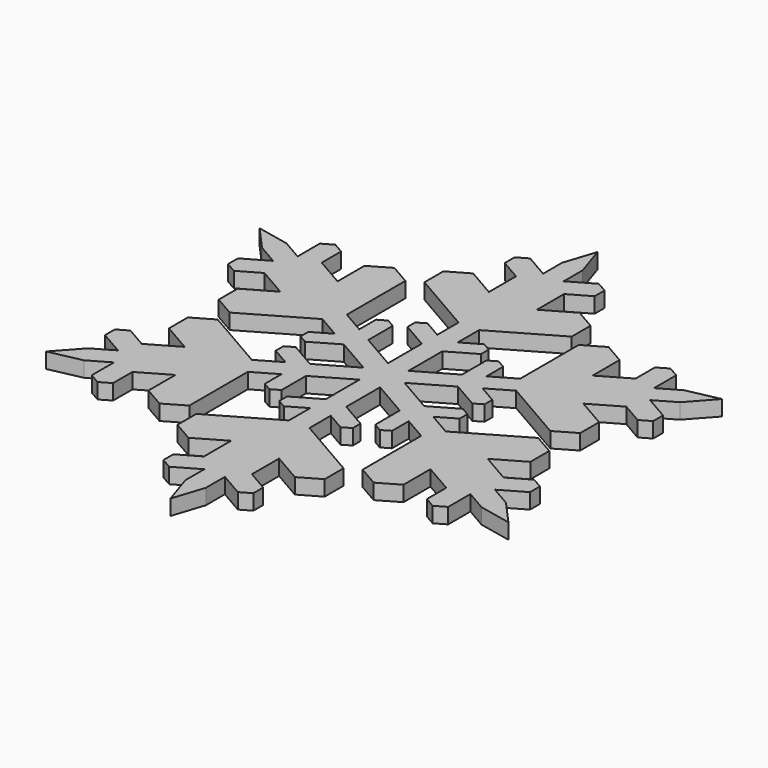
from build123d import *

# Parameters (mm, degrees)
F1_DEPTH = 1.5
F2_SCALE = 2


with BuildPart() as f1:
    # F0 (on Top) → F1 (new body)
    with BuildSketch(Plane.XY):
        Polygon((1, 22.9381248355), (0, 26), (-1, 22.9381248355), (-1, 20.6239007905), (-1, 10.3257747583), (-1, 7.7330539934), (-1, 5.8462243388), (-1, 1.7320508076), (0, 1.1547005384), (1, 1.7320508076), (1, 5.8462243388), (1, 7.7330539934), (1, 10.3257747583), (1, 20.6239007905), align=None)
        Polygon((-1, 10.3257747583), (-1, 20.6239007905), (-3.3421805402, 21.9761593558), (-4.3800496496, 21.3769453461), (-4.3800496496, 20.1785173267), (-2.3382089566, 18.999660053), (-2.3382089566, 15.6947334178), (-5.1809422958, 17.3359862764), (-7.1712173522, 16.1869004369), (-7.1712173522, 13.8887287578), align=None)
        Polygon((3.3421805402, 21.9761593558), (1, 20.6239007905), (1, 10.3257747583), (7.1712173522, 13.8887287578), (7.1712173522, 16.1869004369), (5.1809422958, 17.3359862764), (2.3382089566, 15.6947334178), (2.3382089566, 18.999660053), (4.3800496496, 20.1785173267), (4.3800496496, 21.3769453461), align=None)
        Polygon((-1, 5.8462243388), (-1, 7.7330539934), (-2.7624498207, 8.7506048719), (-3.5794710275, 8.2788974582), (-3.5794710275, 7.3354826309), align=None)
        Polygon((2.7624498207, 8.7506048719), (1, 7.7330539934), (1, 5.8462243388), (3.5794710275, 7.3354826309), (3.5794710275, 8.2788974582), align=None)
        Polygon((0, 1.1547005384), (-1, 1.7320508076), (-1, 0.5773502692), (-2, 0), (-1, -0.5773502692), (-1, -1.7320508076), (0, -1.1547005384), (1, -1.7320508076), (1, -0.5773502692), (2, 0), (1, 0.5773502692), (1, 1.7320508076), align=None)
        Polygon((-1, 0.5773502692), (-1, 1.7320508076), (-4.5629787936, 3.7891375732), (-6.1970212072, 4.7325524005), (-8.4423832544, 6.0289127829), (-17.3608220097, 11.177975799), (-19.3649988227, 12.3350878215), (-22.5166604984, 13), (-20.3649988227, 10.603037014), (-18.3608220097, 9.4459249914), (-9.4423832544, 4.2968619754), (-7.1970212072, 3.0005015929), (-5.5629787936, 2.0570867656), (-2, 0), align=None)
        Polygon((4.5629787936, 3.7891375732), (1, 1.7320508076), (1, 0.5773502692), (2, 0), (5.5629787936, 2.0570867656), (7.1970212072, 3.0005015929), (9.4423832544, 4.2968619754), (18.3608220097, 9.4459249914), (20.3649988227, 10.603037014), (22.5166604984, 13), (19.3649988227, 12.3350878215), (17.3608220097, 11.177975799), (8.4423832544, 6.0289127829), (6.1970212072, 4.7325524005), align=None)
        Polygon((-6.1970212072, 4.7325524005), (-4.5629787936, 3.7891375732), (-4.5629787936, 6.7676541573), (-5.3800000004, 7.239361571), (-6.1970212072, 6.7676541573), align=None)
        Polygon((4.5629787936, 6.7676541573), (4.5629787936, 3.7891375732), (6.1970212072, 4.7325524005), (6.1970212072, 6.7676541573), (5.3800000004, 7.239361571), align=None)
        Polygon((-1, -0.5773502692), (-2, 0), (-5.5629787936, -2.0570867656), (-7.1970212072, -3.0005015929), (-9.4423832544, -4.2968619754), (-18.3608220097, -9.4459249914), (-20.3649988227, -10.603037014), (-22.5166604984, -13), (-19.3649988227, -12.3350878215), (-17.3608220097, -11.177975799), (-8.4423832544, -6.0289127829), (-6.1970212072, -4.7325524005), (-4.5629787936, -3.7891375732), (-1, -1.7320508076), align=None)
        Polygon((5.5629787936, -2.0570867656), (2, 0), (1, -0.5773502692), (1, -1.7320508076), (4.5629787936, -3.7891375732), (6.1970212072, -4.7325524005), (8.4423832544, -6.0289127829), (17.3608220097, -11.177975799), (19.3649988227, -12.3350878215), (22.5166604984, -13), (20.3649988227, -10.603037014), (18.3608220097, -9.4459249914), (9.4423832544, -4.2968619754), (7.1970212072, -3.0005015929), align=None)
        Polygon((-8.1424498211, 0.5678284735), (-5.5629787936, 2.0570867656), (-7.1970212072, 3.0005015929), (-8.9594710279, 1.9829507145), (-8.9594710279, 1.0395358872), align=None)
        Polygon((-7.1970212072, -3.0005015929), (-5.5629787936, -2.0570867656), (-8.1424498211, -0.5678284735), (-8.9594710279, -1.0395358872), (-8.9594710279, -1.9829507145), align=None)
        Polygon((-17.3608220097, 11.177975799), (-8.4423832544, 6.0289127829), (-8.4423832544, 13.1548207819), (-10.4326583108, 14.3039066215), (-12.4229333671, 13.1548207819), (-12.4229333671, 9.8723150647), (-15.2850837908, 11.5247783823), (-15.2850837908, 13.8824929298), (-16.3229529002, 14.4817069395), (-17.3608220097, 13.8824929298), align=None)
        Polygon((8.1424498211, -0.5678284735), (5.5629787936, -2.0570867656), (7.1970212072, -3.0005015929), (8.9594710279, -1.9829507145), (8.9594710279, -1.0395358872), align=None)
        Polygon((7.1970212072, 3.0005015929), (5.5629787936, 2.0570867656), (8.1424498211, 0.5678284735), (8.9594710279, 1.0395358872), (8.9594710279, 1.9829507145), align=None)
        Polygon((8.4423832544, 13.1548207819), (8.4423832544, 6.0289127829), (17.3608220097, 11.177975799), (17.3608220097, 13.8824929298), (16.3229529002, 14.4817069395), (15.2850837908, 13.8824929298), (15.2850837908, 11.5247783823), (12.4229333671, 9.8723150647), (12.4229333671, 13.1548207819), (10.4326583108, 14.3039066215), align=None)
        Polygon((0, -1.1547005384), (-1, -1.7320508076), (-1, -5.8462243388), (-1, -7.7330539934), (-1, -10.3257747583), (-1, -20.6239007905), (-1, -22.9381248355), (0, -26), (1, -22.9381248355), (1, -20.6239007905), (1, -10.3257747583), (1, -7.7330539934), (1, -5.8462243388), (1, -1.7320508076), align=None)
        Polygon((-15.6136006066, 0.7339079759), (-9.4423832544, 4.2968619754), (-18.3608220097, 9.4459249914), (-20.7030025499, 8.0936664261), (-20.7030025499, 6.8952384067), (-19.6651334405, 6.2960243969), (-17.6232927475, 7.4748816707), (-14.7611423238, 5.8224183531), (-17.6038756629, 4.1811654945), (-17.6038756629, 1.8829938154), align=None)
        Polygon((-4.5629787936, -6.7676541573), (-4.5629787936, -3.7891375732), (-6.1970212072, -4.7325524005), (-6.1970212072, -6.7676541573), (-5.3800000004, -7.239361571), align=None)
        Polygon((-1, -7.7330539934), (-1, -5.8462243388), (-3.5794710275, -7.3354826309), (-3.5794710275, -8.2788974582), (-2.7624498207, -8.7506048719), align=None)
        Polygon((-18.3608220097, -9.4459249914), (-9.4423832544, -4.2968619754), (-15.6136006066, -0.7339079759), (-17.6038756629, -1.8829938154), (-17.6038756629, -4.1811654945), (-14.7611423238, -5.8224183531), (-17.6232927475, -7.4748816707), (-19.6651334405, -6.2960243969), (-20.7030025499, -6.8952384067), (-20.7030025499, -8.0936664261), align=None)
        Polygon((15.6136006066, -0.7339079759), (9.4423832544, -4.2968619754), (18.3608220097, -9.4459249914), (20.7030025499, -8.0936664261), (20.7030025499, -6.8952384067), (19.6651334405, -6.2960243969), (17.6232927475, -7.4748816707), (14.7611423238, -5.8224183531), (17.6038756629, -4.1811654945), (17.6038756629, -1.8829938154), align=None)
        Polygon((18.3608220097, 9.4459249914), (9.4423832544, 4.2968619754), (15.6136006066, 0.7339079759), (17.6038756629, 1.8829938154), (17.6038756629, 4.1811654945), (14.7611423238, 5.8224183531), (17.6232927475, 7.4748816707), (19.6651334405, 6.2960243969), (20.7030025499, 6.8952384067), (20.7030025499, 8.0936664261), align=None)
        Polygon((3.5794710275, -7.3354826309), (1, -5.8462243388), (1, -7.7330539934), (2.7624498207, -8.7506048719), (3.5794710275, -8.2788974582), align=None)
        Polygon((6.1970212072, -4.7325524005), (4.5629787936, -3.7891375732), (4.5629787936, -6.7676541573), (5.3800000004, -7.239361571), (6.1970212072, -6.7676541573), align=None)
        Polygon((-8.4423832544, -13.1548207819), (-8.4423832544, -6.0289127829), (-17.3608220097, -11.177975799), (-17.3608220097, -13.8824929298), (-16.3229529002, -14.4817069395), (-15.2850837908, -13.8824929298), (-15.2850837908, -11.5247783823), (-12.4229333671, -9.8723150647), (-12.4229333671, -13.1548207819), (-10.4326583108, -14.3039066215), align=None)
        Polygon((-1, -20.6239007905), (-1, -10.3257747583), (-7.1712173522, -13.8887287578), (-7.1712173522, -16.1869004369), (-5.1809422958, -17.3359862764), (-2.3382089566, -15.6947334178), (-2.3382089566, -18.999660053), (-4.3800496496, -20.1785173267), (-4.3800496496, -21.3769453461), (-3.3421805402, -21.9761593558), align=None)
        Polygon((7.1712173522, -13.8887287578), (1, -10.3257747583), (1, -20.6239007905), (3.3421805402, -21.9761593558), (4.3800496496, -21.3769453461), (4.3800496496, -20.1785173267), (2.3382089566, -18.999660053), (2.3382089566, -15.6947334178), (5.1809422958, -17.3359862764), (7.1712173522, -16.1869004369), align=None)
        Polygon((17.3608220097, -11.177975799), (8.4423832544, -6.0289127829), (8.4423832544, -13.1548207819), (10.4326583108, -14.3039066215), (12.4229333671, -13.1548207819), (12.4229333671, -9.8723150647), (15.2850837908, -11.5247783823), (15.2850837908, -13.8824929298), (16.3229529002, -14.4817069395), (17.3608220097, -13.8824929298), align=None)
    extrude(amount=F1_DEPTH)


with BuildPart() as f1_1:
    # F2: moved
    add(f1.part.scale(F2_SCALE))


solid = f1_1.part
